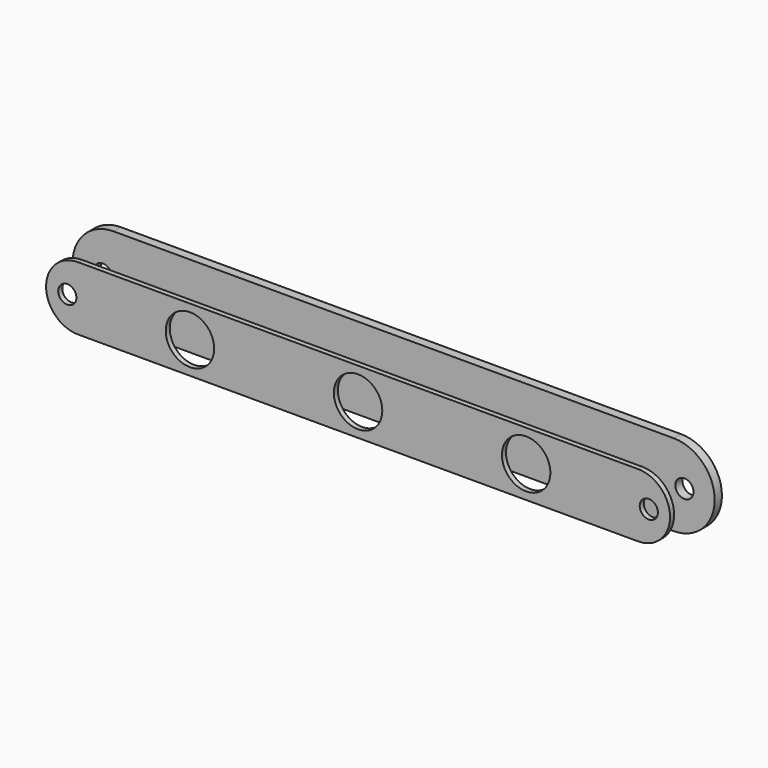
from build123d import *

# Parameters (mm, degrees)
F0_R     = 4.7625
F1_DEPTH = 4.7498
F3_R     = 4.7625
F3_R_2   = 12.7
F4_DEPTH = 2.667


with BuildPart() as f1:
    # F0 (on Front) → F1 (new body)
    with BuildSketch(Plane.XZ):
        with BuildLine():
            ThreePointArc((146.84375, -21.43125), (168.275, 0), (146.84375, 21.43125))
            Line((146.84375, 21.43125), (-146.84375, 21.43125))
            ThreePointArc((-146.84375, 21.43125), (-168.275, 0), (-146.84375, -21.43125))
            Line((-146.84375, -21.43125), (146.84375, -21.43125))
        make_face()
        with Locations((-152.4, 0)):
            Circle(F0_R, mode=Mode.SUBTRACT)
        with Locations((152.4, 0)):
            Circle(F0_R, mode=Mode.SUBTRACT)
    extrude(amount=F1_DEPTH)


with BuildPart() as f4:
    # F3 (on offset) → F4 (new body)
    with BuildSketch(Plane.XZ.offset(25.4)):
        with BuildLine():
            ThreePointArc((146.84375, -16.68145), (163.5252, 0), (146.84375, 16.68145))
            Line((146.84375, 16.68145), (-146.84375, 16.68145))
            ThreePointArc((-146.84375, 16.68145), (-163.5252, 0), (-146.84375, -16.68145))
            Line((-146.84375, -16.68145), (146.84375, -16.68145))
        make_face()
        with Locations((-152.4, 0)):
            Circle(F3_R, mode=Mode.SUBTRACT)
        with Locations((-88.1126, 0)):
            Circle(F3_R_2, mode=Mode.SUBTRACT)
        Circle(F3_R_2, mode=Mode.SUBTRACT)
        with Locations((88.1126, 0)):
            Circle(F3_R_2, mode=Mode.SUBTRACT)
        with Locations((152.4, 0)):
            Circle(F3_R, mode=Mode.SUBTRACT)
    extrude(amount=F4_DEPTH)


solid = Compound([f1.part, f4.part])
